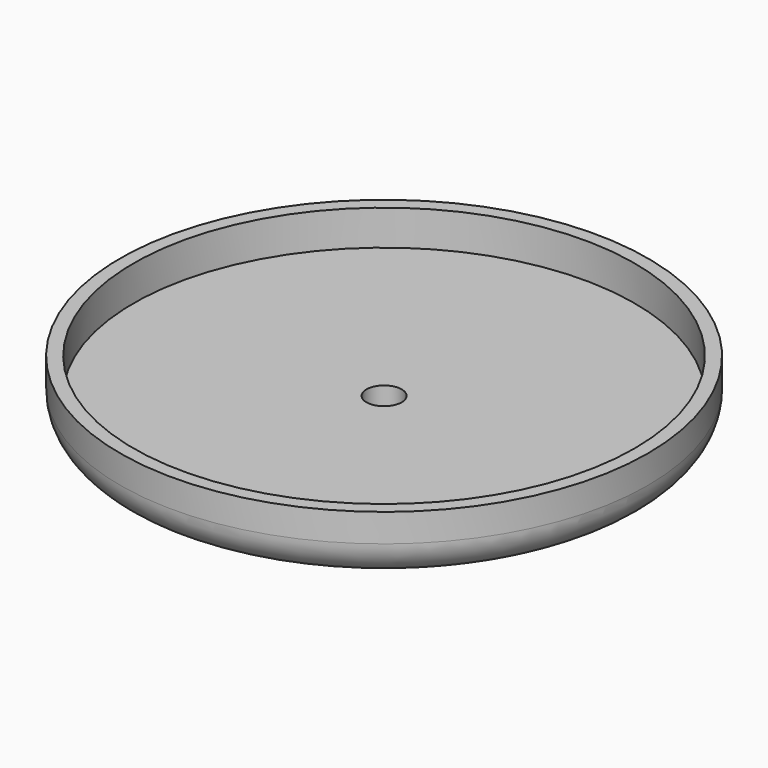
from build123d import *

# Parameters (mm, degrees)
F0_R     = 37.5
F1_DEPTH = 4
F2_R     = 37.5
F2_R_2   = 33.5
F3_DEPTH = 5
F4_R     = 35.6
F5_DEPTH = 5
F6_R     = 2.5
F7_DEPTH = 4.001
F8_R     = 5


with BuildPart() as f1:
    # F0 (on Top) → F1 (new body)
    with BuildSketch(Plane.XY):
        Circle(F0_R)
    extrude(amount=F1_DEPTH)

    # F2 (on face) → F3 (join)
    with BuildSketch(Plane.XY.offset(4)):
        Circle(F2_R)
        Circle(F2_R_2, mode=Mode.SUBTRACT)
    extrude(amount=F3_DEPTH)

    # F4 (on face) → F5 (cut)
    with BuildSketch(Plane.XY.offset(9)):
        Circle(F4_R)
    extrude(amount=-F5_DEPTH, mode=Mode.SUBTRACT)

    # F6 (on face) → F7 (cut, through all)
    with BuildSketch(Plane.XY.offset(4)):
        Circle(F6_R)
    extrude(amount=-F7_DEPTH, mode=Mode.SUBTRACT)

    # F8
    f8_edges = [f1.edges().sort_by_distance(p)[0] for p in [
        (-37.5, 0, 0),
    ]]
    fillet(f8_edges, radius=F8_R)


solid = f1.part
